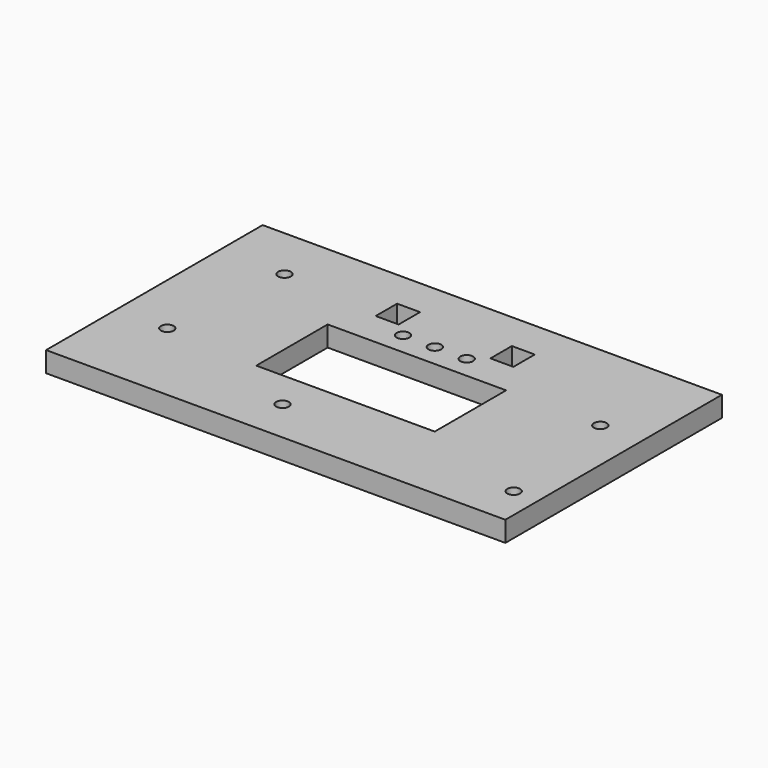
from build123d import *

# Parameters (mm, degrees)
F0_W     = 36.0284
F0_H     = 21.231412
F0_R     = 0.5
F0_W_2   = 1.8
F0_H_2   = 2.1
F1_DEPTH = 1.6
F2_W     = 14
F2_H     = 7
F3_DEPTH = 25


with BuildPart() as f1:
    # F0 (on Top) → F1 (new body)
    with BuildSketch(Plane.XY):
        with Locations((-0.327717, 0.685052)):
            Rectangle(F0_W, F0_H)
        with Locations((-2.54, -6.5)):
            Circle(F0_R, mode=Mode.SUBTRACT)
        with Locations((-14.34953, -3.033757)):
            Circle(F0_R, mode=Mode.SUBTRACT)
        with Locations((15.721297, -6.659835)):
            Circle(F0_R, mode=Mode.SUBTRACT)
        with Locations((-2.5, 5.26)):
            Circle(F0_R, mode=Mode.SUBTRACT)
        with Locations((-13.233492, 7.059484)):
            Circle(F0_R, mode=Mode.SUBTRACT)
        with Locations((-4.5, 7.26)):
            Rectangle(F0_W_2, F0_H_2, mode=Mode.SUBTRACT)
        with Locations((0, 5.26)):
            Circle(F0_R, mode=Mode.SUBTRACT)
        with Locations((2.5, 5.26)):
            Circle(F0_R, mode=Mode.SUBTRACT)
        with Locations((14.410802, 3.474698)):
            Circle(F0_R, mode=Mode.SUBTRACT)
        with Locations((4.5, 7.26)):
            Rectangle(F0_W_2, F0_H_2, mode=Mode.SUBTRACT)
    extrude(amount=-F1_DEPTH)

    # F2 (on face) → F3 (cut)
    with BuildSketch(Plane.XY):
        Rectangle(F2_W, F2_H)
    extrude(amount=-F3_DEPTH, mode=Mode.SUBTRACT)


solid = f1.part
